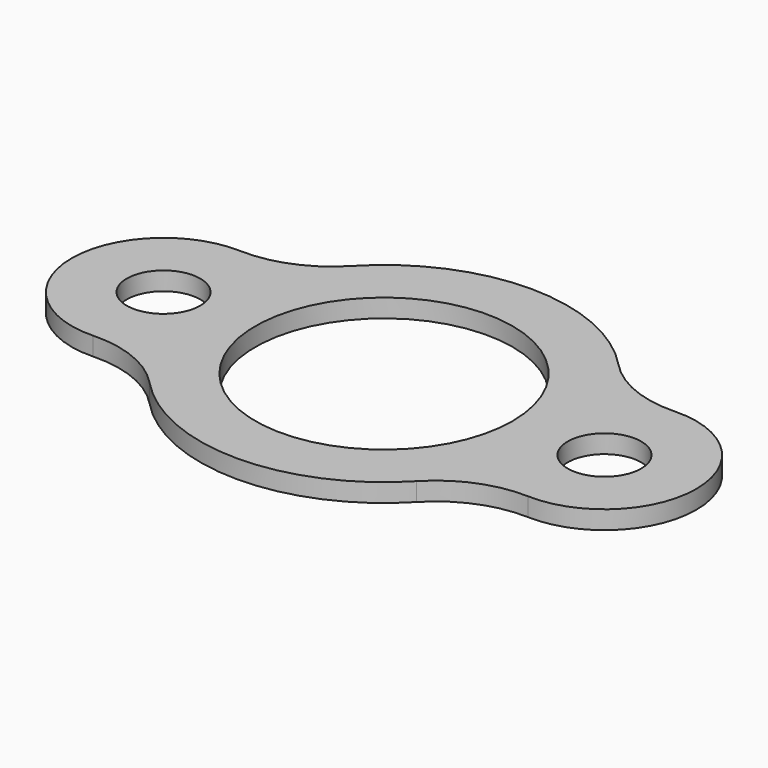
from build123d import *

# Parameters (mm, degrees)
F0_R     = 12.7
F0_R_2   = 44.45
F1_DEPTH = 6.35


with BuildPart() as f1:
    # F0 (on Top) → F1 (new body)
    with BuildSketch(Plane.XY):
        with BuildLine():
            ThreePointArc((-46.136719, 43.630874), (-59.347524, 34.564632), (-75.117614, 31.731545))
            ThreePointArc((-75.117614, 31.731545), (-107.95, 0), (-75.117614, -31.731545))
            ThreePointArc((-75.117614, -31.731545), (-59.347524, -34.564632), (-46.136719, -43.630874))
            ThreePointArc((-46.136719, -43.630874), (0, -63.5), (46.136719, -43.630874))
            ThreePointArc((46.136719, -43.630874), (59.347524, -34.564632), (75.117614, -31.731545))
            ThreePointArc((75.117614, -31.731545), (107.95, 0), (75.117614, 31.731545))
            ThreePointArc((75.117614, 31.731545), (59.347524, 34.564632), (46.136719, 43.630874))
            ThreePointArc((46.136719, 43.630874), (0, 63.5), (-46.136719, 43.630874))
        make_face()
        with Locations((-76.2, 0)):
            Circle(F0_R, mode=Mode.SUBTRACT)
        Circle(F0_R_2, mode=Mode.SUBTRACT)
        with Locations((76.2, 0)):
            Circle(F0_R, mode=Mode.SUBTRACT)
    extrude(amount=-F1_DEPTH)


solid = f1.part
